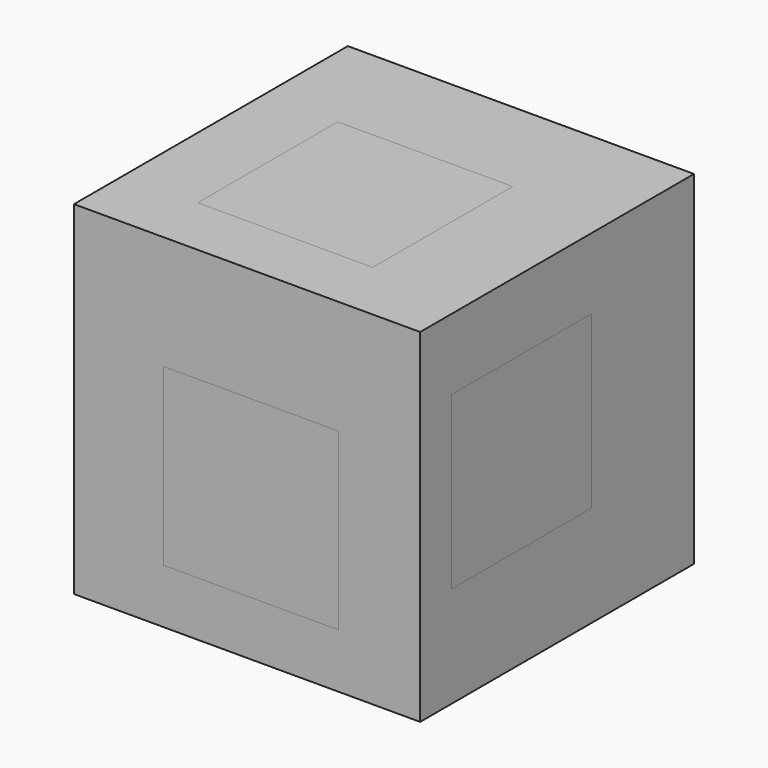
from build123d import *

# Parameters (mm, degrees)
F0_W      = 25.6147121545
F0_H      = 25.3289761022
F1_DEPTH  = 25.4
F2_W      = 12.9512595013
F2_H      = 12.6634538174
F3_DEPTH  = 6.35
F4_W      = 12.95125857
F4_H      = 12.9512581043
F5_DEPTH  = 6.35
F6_W      = 12.9512595013
F6_H      = 12.95125857
F7_DEPTH  = 6.35
F8_W      = 12.9512595013
F8_H      = 12.9512590356
F9_DEPTH  = 6.35
F10_W     = 12.9512595013
F10_H     = 12.9512595013
F11_DEPTH = 6.35
F12_W     = 12.3756472021
F12_H     = 12.9512595013
F13_DEPTH = 6.35
F14_W     = 12.9512595013
F14_H     = 12.95125857
F15_DEPTH = 6.35
F16_W     = 12.9512595013
F16_H     = 11.2061513752
F17_DEPTH = 6.35
F18_W     = 12.95125857
F18_H     = 12.9512581043
F19_DEPTH = 6.35
F20_W     = 12.9512595013
F20_H     = 12.9512595013
F21_DEPTH = 6.35
F22_W     = 12.3756472021
F22_H     = 11.7831494823
F23_DEPTH = 6.35
F24_W     = 12.9512595013
F24_H     = 12.6634538174
F25_DEPTH = 6.35


with BuildPart() as f1:
    # F0 (on Top) → F1 (new body)
    with BuildSketch(Plane.XY):
        with Locations((-16.5488311322, 19.8589502834)):
            Rectangle(F0_W, F0_H)
    extrude(amount=F1_DEPTH)

    # F2 (on face) → F3 (cut)
    with BuildSketch(Plane.YZ.offset(-3.741475055)):
        with Locations((16.5488305502, 13.814676553)):
            Rectangle(F2_W, F2_H)
    extrude(amount=-F3_DEPTH, mode=Mode.SUBTRACT)

    # F4 (on face) → F5 (cut)
    with BuildSketch(Plane(origin=(-29.3561872095, 0, 0), x_dir=(0, -1, 0), z_dir=(-1, 0, 0))):
        with Locations((-20.0025010854, 11.3683270756)):
            Rectangle(F4_W, F4_H)
    extrude(amount=-F5_DEPTH, mode=Mode.SUBTRACT)

    # F6 (on face) → F7 (cut)
    with BuildSketch(Plane.XY.offset(25.4)):
        with Locations((-17.4122485332, 18.2756651193)):
            Rectangle(F6_W, F6_H)
    extrude(amount=-F7_DEPTH, mode=Mode.SUBTRACT)

    # F8 (on face) → F9 (cut)
    with BuildSketch(Plane(origin=(0, 32.5234383345, 0), x_dir=(-1, 0, 0), z_dir=(0, 1, 0))):
        with Locations((15.9732191823, 11.0805218574)):
            Rectangle(F8_W, F8_H)
    extrude(amount=-F9_DEPTH, mode=Mode.SUBTRACT)

    # F10 (on face) → F11 (cut)
    with BuildSketch(Plane.XZ.offset(-7.1944622323)):
        with Locations((-16.2610257976, 10.5049102567)):
            Rectangle(F10_W, F10_H)
    extrude(amount=-F11_DEPTH, mode=Mode.SUBTRACT)

    # F12 (on face) → F13 (cut)
    with BuildSketch(Plane(origin=(0, 0, 0), x_dir=(1, 0, 0), z_dir=(0, 0, -1))):
        with Locations((-16.2610253319, -20.8659186028)):
            Rectangle(F12_W, F12_H)
    extrude(amount=-F13_DEPTH, mode=Mode.SUBTRACT)


with BuildPart() as f15:
    # F14 (on face) → F15 (new body)
    with BuildSketch(Plane.XY.offset(19.05)):
        with Locations((-17.4122485332, 18.2756651193)):
            Rectangle(F14_W, F14_H)
    extrude(amount=F15_DEPTH)


with BuildPart() as f17:
    # F16 (on face) → F17 (new body)
    with BuildSketch(Plane(origin=(0, 26.1734383345, 0), x_dir=(-1, 0, 0), z_dir=(0, 1, 0))):
        with Locations((15.9732191823, 11.9530756876)):
            Rectangle(F16_W, F16_H)
    extrude(amount=F17_DEPTH)


with BuildPart() as f19:
    # F18 (on face) → F19 (new body)
    with BuildSketch(Plane(origin=(-23.0061872095, 0, 0), x_dir=(0, -1, 0), z_dir=(-1, 0, 0))):
        with Locations((-20.0025010854, 11.3683270756)):
            Rectangle(F18_W, F18_H)
    extrude(amount=F19_DEPTH)


with BuildPart() as f21:
    # F20 (on face) → F21 (new body)
    with BuildSketch(Plane.XZ.offset(-13.5444622323)):
        with Locations((-16.2610257976, 10.5049102567)):
            Rectangle(F20_W, F20_H)
    extrude(amount=F21_DEPTH)


with BuildPart() as f23:
    # F22 (on face) → F23 (new body)
    with BuildSketch(Plane(origin=(0, 0, 6.35), x_dir=(1, 0, 0), z_dir=(0, 0, -1))):
        with Locations((-16.2610253319, -20.2818635933)):
            Rectangle(F22_W, F22_H)
    extrude(amount=F23_DEPTH)


with BuildPart() as f25:
    # F24 (on face) → F25 (new body)
    with BuildSketch(Plane.YZ.offset(-10.091475055)):
        with Locations((16.5488305502, 13.814676553)):
            Rectangle(F24_W, F24_H)
    extrude(amount=F25_DEPTH)


solid = Compound([f1.part, f15.part, f17.part, f19.part, f21.part, f23.part, f25.part])
